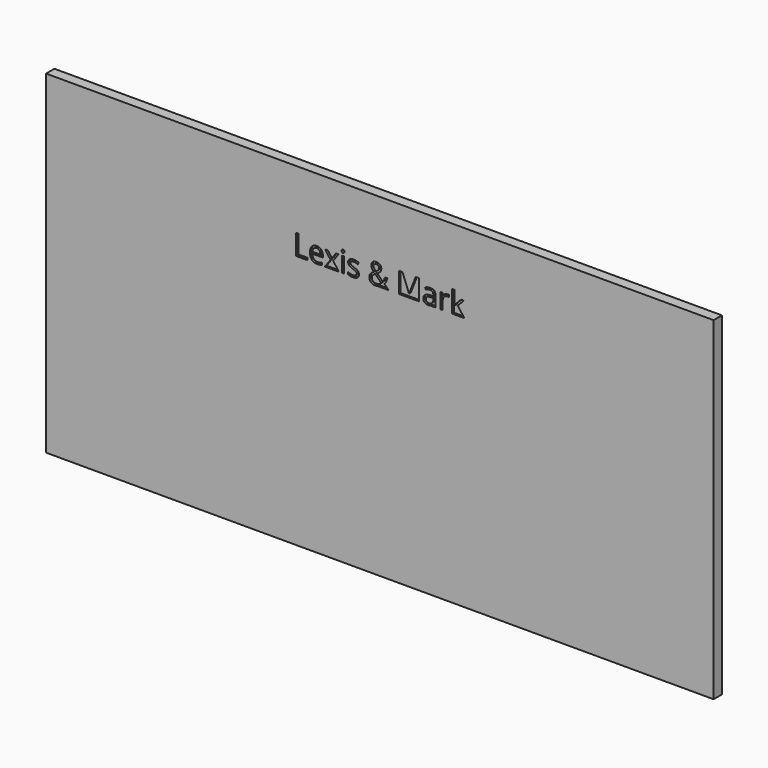
from build123d import *

# Parameters (mm, degrees)
F0_W     = 1016
F0_H     = 508
F1_DEPTH = 15.875
F2_W     = 3.5368850513
F2_H     = 23.3407154155
F3_DEPTH = 3.175


with BuildPart() as f1:
    # F0 (on Front) → F1 (new body)
    with BuildSketch(Plane.XZ):
        Rectangle(F0_W, F0_H)
    extrude(amount=F1_DEPTH)

    # F2 (on face) → F3 (cut)
    with BuildSketch(Plane.XZ.offset(15.875)):
        Polygon((-127.2188249277, 164.4563224108), (-127.2188249277, 133.3194673061), (-109.8615104274, 133.3194673061), (-109.8615104274, 136.5973896754), (-123.6001621874, 136.5973896754), (-123.6001621874, 164.4563224108), align=None)
        with BuildLine():
            Line((109.9909917684, 166.4598757925), (109.9909917684, 133.3194673061))
            Line((109.9909917684, 133.3194673061), (113.4869879752, 133.3194673061))
            Line((113.4869879752, 133.3194673061), (113.4869879752, 142.0492356119))
            Line((113.4869879752, 142.0492356119), (116.1447628692, 144.3526405201))
            Line((116.1447628692, 144.3526405201), (124.3906798481, 133.3194673061))
            Line((124.3906798481, 133.3194673061), (128.6703789083, 133.3194673061))
            Line((128.6703789083, 133.3194673061), (118.5503898887, 146.717378695))
            Line((118.5503898887, 146.717378695), (128.0093425885, 156.6601827217))
            Line((128.0093425885, 156.6601827217), (123.8114212174, 156.6601827217))
            Line((123.8114212174, 156.6601827217), (116.2742442102, 148.6732284247))
            add(Edge.make_bspline(
                [(113.4869879752, 145.2658247144), (114.4001721696, 146.5674529318), (116.2742442102, 148.6732284247)],
                knots=[0, 0, 0, 1, 1, 1], degree=2))
            Line((113.4869879752, 145.2658247144), (113.3166177897, 145.2658247144))
            add(Edge.make_bspline(
                [(113.4869879752, 148.8844874548), (113.4869879752, 147.7191553859), (113.3166177897, 145.2658247144)],
                knots=[0, 0, 0, 1, 1, 1], degree=2))
            Line((113.4869879752, 148.8844874548), (113.4869879752, 166.4598757925))
            Line((113.4869879752, 166.4598757925), (109.9909917684, 166.4598757925))
        make_face()
        with BuildLine():
            Line((92.1838999784, 156.6601827217), (92.1838999784, 133.3194673061))
            Line((92.1838999784, 133.3194673061), (95.7207850297, 133.3194673061))
            Line((95.7207850297, 133.3194673061), (95.7207850297, 145.8450833452))
            add(Edge.make_bspline(
                [(97.7311532188, 151.5729289822), (95.7207850297, 149.2729314778), (95.7207850297, 145.8450833452)],
                knots=[0, 0, 0, 1, 1, 1], degree=2))
            add(Edge.make_bspline(
                [(102.5764812948, 153.8729264867), (99.7415214079, 153.8729264867), (97.7311532188, 151.5729289822)],
                knots=[0, 0, 0, 1, 1, 1], degree=2))
            add(Edge.make_bspline(
                [(105.1320340775, 153.5526305379), (103.6872949044, 153.8729264867), (102.5764812948, 153.8729264867)],
                knots=[0, 0, 0, 1, 1, 1], degree=2))
            Line((105.1320340775, 153.5526305379), (105.6227002118, 156.8305529072))
            add(Edge.make_bspline(
                [(102.8354439768, 157.0895155892), (104.3892200687, 157.0895155892), (105.6227002118, 156.8305529072)],
                knots=[0, 0, 0, 1, 1, 1], degree=2))
            add(Edge.make_bspline(
                [(98.8078927912, 155.8526280423), (100.6410759874, 157.0895155892), (102.8354439768, 157.0895155892)],
                knots=[0, 0, 0, 1, 1, 1], degree=2))
            add(Edge.make_bspline(
                [(95.6798961852, 152.339594817), (96.9747095951, 154.6157404955), (98.8078927912, 155.8526280423)],
                knots=[0, 0, 0, 1, 1, 1], degree=2))
            Line((95.6798961852, 152.339594817), (95.5095259997, 152.339594817))
            Line((95.5095259997, 152.339594817), (95.1006375544, 156.6601827217))
            Line((95.1006375544, 156.6601827217), (92.1838999784, 156.6601827217))
        make_face()
        with BuildLine():
            add(Edge.make_bspline(
                [(70.5568210335, 133.3194673061), (69.1604420556, 133.7673407276), (68.1548890134, 134.6824287903)],
                knots=[0.4894320446, 0.4894320446, 0.4894320446, 1, 1, 1], degree=2))
            Line((70.5568210335, 133.3194673061), (76.9770468874, 133.3194673061))
            add(Edge.make_bspline(
                [(77.9307302582, 133.6704298883), (77.4828591485, 133.4689318841), (76.9770468874, 133.3194673061)],
                knots=[0, 0, 0, 0.2582329607, 0.2582329607, 0.2582329607], degree=2))
            add(Edge.make_bspline(
                [(81.4096894464, 136.6450933274), (79.6650987468, 134.450725338), (77.9307302582, 133.6704298883)],
                knots=[0, 0, 0, 1, 1, 1], degree=2))
            Line((81.4096894464, 136.6450933274), (81.580059632, 136.6450933274))
            Line((81.580059632, 136.6450933274), (82.2819847963, 133.3194673061))
            Line((82.2819847963, 133.3194673061), (84.9056856532, 133.3194673061))
            Line((84.9056856532, 133.3194673061), (84.9056856532, 149.2524870555))
            add(Edge.make_bspline(
                [(82.8919100604, 155.1915917225), (84.9056856532, 153.3413715078), (84.9056856532, 149.2524870555)],
                knots=[0, 0, 0, 1, 1, 1], degree=2))
            add(Edge.make_bspline(
                [(76.7074723262, 157.0418119372), (80.8781344676, 157.0418119372), (82.8919100604, 155.1915917225)],
                knots=[0, 0, 0, 1, 1, 1], degree=2))
            add(Edge.make_bspline(
                [(72.5811064331, 156.5102569584), (74.6357708704, 157.0418119372), (76.7074723262, 157.0418119372)],
                knots=[0, 0, 0, 1, 1, 1], degree=2))
            add(Edge.make_bspline(
                [(68.8022957183, 155.045073363), (70.5264419958, 155.9787019796), (72.5811064331, 156.5102569584)],
                knots=[0, 0, 0, 1, 1, 1], degree=2))
            Line((68.8022957183, 155.045073363), (69.8926649056, 152.339594817))
            add(Edge.make_bspline(
                [(76.4893984888, 154.1250743612), (73.5726609128, 154.1250743612), (69.8926649056, 152.339594817)],
                knots=[0, 0, 0, 1, 1, 1], degree=2))
            add(Edge.make_bspline(
                [(80.2716166072, 152.8166313365), (79.0926549234, 154.1250743612), (76.4893984888, 154.1250743612)],
                knots=[0, 0, 0, 1, 1, 1], degree=2))
            add(Edge.make_bspline(
                [(81.450578291, 148.7618209212), (81.450578291, 151.5081883117), (80.2716166072, 152.8166313365)],
                knots=[0, 0, 0, 1, 1, 1], degree=2))
            Line((81.450578291, 148.7618209212), (81.450578291, 147.3102669406))
            Line((81.450578291, 147.3102669406), (77.4911751796, 147.1807855996))
            add(Edge.make_bspline(
                [(66.1854096688, 139.7730899334), (66.1854096688, 146.8400452286), (77.4911751796, 147.1807855996)],
                knots=[0, 0, 0, 1, 1, 1], degree=2))
            add(Edge.make_bspline(
                [(68.1548890134, 134.6824287903), (66.1854096688, 136.4747231419), (66.1854096688, 139.7730899334)],
                knots=[0, 0, 0, 1, 1, 1], degree=2))
        make_face()
        with BuildLine():
            add(Edge.make_bspline(
                [(74.2950304993, 135.8136868221), (77.6002120983, 135.8136868221), (79.4845063501, 137.6230181922)],
                knots=[0, 0, 0, 1, 1, 1], degree=2))
            add(Edge.make_bspline(
                [(71.0511821671, 136.8120561092), (72.2096994286, 135.8136868221), (74.2950304993, 135.8136868221)],
                knots=[0, 0, 0, 1, 1, 1], degree=2))
            add(Edge.make_bspline(
                [(69.8926649056, 139.7322010889), (69.8926649056, 137.8104253963), (71.0511821671, 136.8120561092)],
                knots=[0, 0, 0, 1, 1, 1], degree=2))
            add(Edge.make_bspline(
                [(71.7531073315, 143.3406416181), (69.8926649056, 142.1787169529), (69.8926649056, 139.7322010889)],
                knots=[0, 0, 0, 1, 1, 1], degree=2))
            add(Edge.make_bspline(
                [(77.8319155506, 144.6524920466), (73.6135497573, 144.5025662833), (71.7531073315, 143.3406416181)],
                knots=[0, 0, 0, 1, 1, 1], degree=2))
            Line((77.8319155506, 144.6524920466), (81.3688006019, 144.7956030024))
            Line((81.3688006019, 144.7956030024), (81.3688006019, 142.6898275095))
            add(Edge.make_bspline(
                [(79.4845063501, 137.6230181922), (81.3688006019, 139.4323495624), (81.3688006019, 142.6898275095)],
                knots=[0, 0, 0, 1, 1, 1], degree=2))
        make_face(mode=Mode.SUBTRACT)
        with BuildLine():
            Line((76.9770468874, 133.3194673061), (70.5568210335, 133.3194673061))
            add(Edge.make_bspline(
                [(73.593105335, 132.8901344386), (71.8953943043, 132.8901344386), (70.5568210335, 133.3194673061)],
                knots=[0, 0, 0, 0.4894320446, 0.4894320446, 0.4894320446], degree=2))
            add(Edge.make_bspline(
                [(76.9770468874, 133.3194673061), (75.5241151531, 132.8901344386), (73.593105335, 132.8901344386)],
                knots=[0.2582329607, 0.2582329607, 0.2582329607, 1, 1, 1], degree=2))
        make_face()
        with BuildLine():
            Line((29.0855980711, 164.4563224108), (29.0855980711, 133.3194673061))
            Line((29.0855980711, 133.3194673061), (32.4316685146, 133.3194673061))
            Line((32.4316685146, 133.3194673061), (32.4316685146, 153.1232976704))
            add(Edge.make_bspline(
                [(32.1318169881, 160.9194373596), (32.4316685146, 157.6415149902), (32.4316685146, 153.1232976704)],
                knots=[0, 0, 0, 1, 1, 1], degree=2))
            Line((32.1318169881, 160.9194373596), (32.3021871736, 160.9194373596))
            Line((32.3021871736, 160.9194373596), (42.8651386756, 133.3194673061))
            Line((42.8651386756, 133.3194673061), (45.7818762516, 133.3194673061))
            Line((45.7818762516, 133.3194673061), (56.43342025, 160.878548515))
            Line((56.43342025, 160.878548515), (56.6037904355, 160.878548515))
            add(Edge.make_bspline(
                [(56.303938909, 153.3822603524), (56.303938909, 156.8305529072), (56.6037904355, 160.878548515)],
                knots=[0, 0, 0, 1, 1, 1], degree=2))
            Line((56.303938909, 153.3822603524), (56.303938909, 133.3194673061))
            Line((56.303938909, 133.3194673061), (59.9226016493, 133.3194673061))
            Line((59.9226016493, 133.3194673061), (59.9226016493, 164.4563224108))
            Line((59.9226016493, 164.4563224108), (54.5116445574, 164.4563224108))
            Line((54.5116445574, 164.4563224108), (44.5688405307, 138.7713132426))
            Line((44.5688405307, 138.7713132426), (44.3984703452, 138.7713132426))
            Line((44.3984703452, 138.7713132426), (34.5374440076, 164.4563224108))
            Line((34.5374440076, 164.4563224108), (29.0855980711, 164.4563224108))
        make_face()
        with BuildLine():
            add(Edge.make_bspline(
                [(-9.933311888, 133.3194673061), (-12.0112100812, 133.8749743236), (-13.4353928297, 135.1492430986)],
                knots=[0.4359417953, 0.4359417953, 0.4359417953, 1, 1, 1], degree=2))
            Line((-9.933311888, 133.3194673061), (-2.3697671158, 133.3194673061))
            add(Edge.make_bspline(
                [(-0.5417771899, 133.8714667072), (-1.4219877253, 133.5392247227), (-2.3697671158, 133.3194673061)],
                knots=[0, 0, 0, 0.3385621722, 0.3385621722, 0.3385621722], degree=2))
            add(Edge.make_bspline(
                [(4.5727357792, 137.108500232), (2.058071841, 134.8527989758), (-0.5417771899, 133.8714667072)],
                knots=[0, 0, 0, 1, 1, 1], degree=2))
            Line((4.5727357792, 137.108500232), (8.5116944683, 133.3194673061))
            Line((8.5116944683, 133.3194673061), (13.3842817741, 133.3194673061))
            Line((13.3842817741, 133.3194673061), (7.0192516432, 139.5141272515))
            add(Edge.make_bspline(
                [(11.3875431998, 148.7618209212), (9.9359892192, 142.6693830872), (7.0192516432, 139.5141272515)],
                knots=[0, 0, 0, 1, 1, 1], degree=2))
            Line((11.3875431998, 148.7618209212), (7.809769304, 148.7618209212))
            add(Edge.make_bspline(
                [(6.6035483906, 144.870565884), (7.3191031697, 146.6492306208), (7.809769304, 148.7618209212)],
                knots=[0, 0, 0, 1, 1, 1], degree=2))
            add(Edge.make_bspline(
                [(4.6954023128, 141.7766433151), (5.8879936114, 143.0919011473), (6.6035483906, 144.870565884)],
                knots=[0, 0, 0, 1, 1, 1], degree=2))
            Line((4.6954023128, 141.7766433151), (-3.9662179188, 150.1043379831))
            add(Edge.make_bspline(
                [(0.8211842942, 154.0092226351), (-0.6269622827, 152.080632135), (-3.9662179188, 150.1043379831)],
                knots=[0, 0, 0, 1, 1, 1], degree=2))
            add(Edge.make_bspline(
                [(2.2693308711, 158.2139588136), (2.2693308711, 155.9378131351), (0.8211842942, 154.0092226351)],
                knots=[0, 0, 0, 1, 1, 1], degree=2))
            add(Edge.make_bspline(
                [(0.2896293154, 163.1683238083), (2.2693308711, 161.3896590716), (2.2693308711, 158.2139588136)],
                knots=[0, 0, 0, 1, 1, 1], degree=2))
            add(Edge.make_bspline(
                [(-5.1383647951, 164.9469885451), (-1.6900722403, 164.9469885451), (0.2896293154, 163.1683238083)],
                knots=[0, 0, 0, 1, 1, 1], degree=2))
            add(Edge.make_bspline(
                [(-10.9548029286, 163.1581015972), (-8.8660644542, 164.9469885451), (-5.1383647951, 164.9469885451)],
                knots=[0, 0, 0, 1, 1, 1], degree=2))
            add(Edge.make_bspline(
                [(-13.043541403, 158.1730699691), (-13.043541403, 161.3692146493), (-10.9548029286, 163.1581015972)],
                knots=[0, 0, 0, 1, 1, 1], degree=2))
            add(Edge.make_bspline(
                [(-12.6585047838, 155.8321836201), (-13.043541403, 156.9600342482), (-13.043541403, 158.1730699691)],
                knots=[0, 0, 0, 1, 1, 1], degree=2))
            add(Edge.make_bspline(
                [(-11.6260614595, 153.6582600529), (-12.2734681645, 154.704332992), (-12.6585047838, 155.8321836201)],
                knots=[0, 0, 0, 1, 1, 1], degree=2))
            add(Edge.make_bspline(
                [(-9.1659159807, 150.5881893099), (-10.9786547546, 152.6121871138), (-11.6260614595, 153.6582600529)],
                knots=[0, 0, 0, 1, 1, 1], degree=2))
            add(Edge.make_bspline(
                [(-14.4780583651, 146.2914532312), (-12.9958377511, 148.4210805502), (-9.1659159807, 150.5881893099)],
                knots=[0, 0, 0, 1, 1, 1], degree=2))
            add(Edge.make_bspline(
                [(-15.960278979, 141.3881992921), (-15.960278979, 144.1618259123), (-14.4780583651, 146.2914532312)],
                knots=[0, 0, 0, 1, 1, 1], degree=2))
            add(Edge.make_bspline(
                [(-13.4353928297, 135.1492430986), (-15.960278979, 137.4083517585), (-15.960278979, 141.3881992921)],
                knots=[0, 0, 0, 1, 1, 1], degree=2))
        make_face()
        with BuildLine():
            add(Edge.make_bspline(
                [(-6.2491784047, 136.0658346966), (-1.117628417, 136.0658346966), (2.2693308711, 139.3437570659)],
                knots=[0, 0, 0, 1, 1, 1], degree=2))
            add(Edge.make_bspline(
                [(-10.644729191, 137.5242034846), (-8.9955457952, 136.0658346966), (-6.2491784047, 136.0658346966)],
                knots=[0, 0, 0, 1, 1, 1], degree=2))
            add(Edge.make_bspline(
                [(-12.2939125868, 141.4767917886), (-12.2939125868, 138.9825722727), (-10.644729191, 137.5242034846)],
                knots=[0, 0, 0, 1, 1, 1], degree=2))
            add(Edge.make_bspline(
                [(-11.8270982784, 143.9471594786), (-12.2939125868, 142.860197695), (-12.2939125868, 141.4767917886)],
                knots=[0, 0, 0, 1, 1, 1], degree=2))
            add(Edge.make_bspline(
                [(-10.3789517016, 145.9813794936), (-11.3602839701, 145.0341212621), (-11.8270982784, 143.9471594786)],
                knots=[0, 0, 0, 1, 1, 1], degree=2))
            add(Edge.make_bspline(
                [(-7.0328812581, 148.3733768982), (-9.397619433, 146.9286377251), (-10.3789517016, 145.9813794936)],
                knots=[0, 0, 0, 1, 1, 1], degree=2))
            Line((-7.0328812581, 148.3733768982), (2.2693308711, 139.3437570659))
        make_face(mode=Mode.SUBTRACT)
        with BuildLine():
            add(Edge.make_bspline(
                [(-9.5475451963, 158.2548476581), (-9.5475451963, 156.7896640627), (-8.7808793614, 155.4573692119)],
                knots=[0, 0, 0, 1, 1, 1], degree=2))
            add(Edge.make_bspline(
                [(-8.3651761088, 161.008029856), (-9.5475451963, 159.9858087429), (-9.5475451963, 158.2548476581)],
                knots=[0, 0, 0, 1, 1, 1], degree=2))
            add(Edge.make_bspline(
                [(-5.2882905584, 162.0302509691), (-7.1828070213, 162.0302509691), (-8.3651761088, 161.008029856)],
                knots=[0, 0, 0, 1, 1, 1], degree=2))
            add(Edge.make_bspline(
                [(-2.3613307712, 160.9944002412), (-3.4551073622, 162.0302509691), (-5.2882905584, 162.0302509691)],
                knots=[0, 0, 0, 1, 1, 1], degree=2))
            add(Edge.make_bspline(
                [(-1.2675541802, 158.3229957323), (-1.2675541802, 159.9585495132), (-2.3613307712, 160.9944002412)],
                knots=[0, 0, 0, 1, 1, 1], degree=2))
            add(Edge.make_bspline(
                [(-2.340886349, 155.2018139337), (-1.2675541802, 156.551145803), (-1.2675541802, 158.3229957323)],
                knots=[0, 0, 0, 1, 1, 1], degree=2))
            add(Edge.make_bspline(
                [(-6.1605859082, 152.2510023206), (-3.4142185177, 153.8524820644), (-2.340886349, 155.2018139337)],
                knots=[0, 0, 0, 1, 1, 1], degree=2))
            add(Edge.make_bspline(
                [(-8.7808793614, 155.4573692119), (-8.0142135266, 154.1250743612), (-6.1605859082, 152.2510023206)],
                knots=[0, 0, 0, 1, 1, 1], degree=2))
        make_face(mode=Mode.SUBTRACT)
        with BuildLine():
            Line((-2.3697671158, 133.3194673061), (-9.933311888, 133.3194673061))
            add(Edge.make_bspline(
                [(-6.3309560937, 132.8901344386), (-8.327373598, 132.8901344386), (-9.933311888, 133.3194673061)],
                knots=[0, 0, 0, 0.4359417953, 0.4359417953, 0.4359417953], degree=2))
            add(Edge.make_bspline(
                [(-2.3697671158, 133.3194673061), (-4.2214126706, 132.8901344386), (-6.3309560937, 132.8901344386)],
                knots=[0.3385621722, 0.3385621722, 0.3385621722, 1, 1, 1], degree=2))
        make_face()
        with BuildLine():
            add(Edge.make_bspline(
                [(-45.3597948112, 133.3194673061), (-46.9864855801, 133.6851044351), (-48.1806884636, 134.3621328415)],
                knots=[0.5400617249, 0.5400617249, 0.5400617249, 1, 1, 1], degree=2))
            Line((-45.3597948112, 133.3194673061), (-37.094998065, 133.3194673061))
            add(Edge.make_bspline(
                [(-34.1285555623, 134.6585769643), (-35.3592492228, 133.7614842539), (-37.094998065, 133.3194673061)],
                knots=[0, 0, 0, 0.5072784088, 0.5072784088, 0.5072784088], degree=2))
            add(Edge.make_bspline(
                [(-31.7024841206, 139.684497437), (-31.7024841206, 136.4270194899), (-34.1285555623, 134.6585769643)],
                knots=[0, 0, 0, 1, 1, 1], degree=2))
            add(Edge.make_bspline(
                [(-33.1608529086, 143.541678437), (-31.7024841206, 142.0083467674), (-31.7024841206, 139.684497437)],
                knots=[0, 0, 0, 1, 1, 1], degree=2))
            add(Edge.make_bspline(
                [(-38.7694394158, 146.587897354), (-34.6192216966, 145.0750101067), (-33.1608529086, 143.541678437)],
                knots=[0, 0, 0, 1, 1, 1], degree=2))
            add(Edge.make_bspline(
                [(-42.8583238681, 148.3154510352), (-41.7952139105, 147.7191553859), (-38.7694394158, 146.587897354)],
                knots=[0, 0, 0, 1, 1, 1], degree=2))
            add(Edge.make_bspline(
                [(-44.4018777489, 149.5693756005), (-43.9214338257, 148.9117466845), (-42.8583238681, 148.3154510352)],
                knots=[0, 0, 0, 1, 1, 1], degree=2))
            add(Edge.make_bspline(
                [(-44.882321672, 151.1674479407), (-44.882321672, 150.2270045166), (-44.4018777489, 149.5693756005)],
                knots=[0, 0, 0, 1, 1, 1], degree=2))
            add(Edge.make_bspline(
                [(-43.6045452807, 153.3379641041), (-44.882321672, 152.5508538471), (-44.882321672, 151.1674479407)],
                knots=[0, 0, 0, 1, 1, 1], degree=2))
            add(Edge.make_bspline(
                [(-39.8121049511, 154.1250743612), (-42.3267688893, 154.1250743612), (-43.6045452807, 153.3379641041)],
                knots=[0, 0, 0, 1, 1, 1], degree=2))
            add(Edge.make_bspline(
                [(-33.4470748203, 152.6803351881), (-36.9567006419, 154.1250743612), (-39.8121049511, 154.1250743612)],
                knots=[0, 0, 0, 1, 1, 1], degree=2))
            Line((-33.4470748203, 152.6803351881), (-32.1863354475, 155.5561839195))
            add(Edge.make_bspline(
                [(-39.5599570766, 157.0895155892), (-35.791368573, 157.0895155892), (-32.1863354475, 155.5561839195)],
                knots=[0, 0, 0, 1, 1, 1], degree=2))
            add(Edge.make_bspline(
                [(-45.9249872074, 155.4369247897), (-43.601137877, 157.0895155892), (-39.5599570766, 157.0895155892)],
                knots=[0, 0, 0, 1, 1, 1], degree=2))
            add(Edge.make_bspline(
                [(-48.2488365378, 150.928929681), (-48.2488365378, 153.7843339902), (-45.9249872074, 155.4369247897)],
                knots=[0, 0, 0, 1, 1, 1], degree=2))
            add(Edge.make_bspline(
                [(-47.5775780069, 148.1859696942), (-48.2488365378, 149.3342647445), (-48.2488365378, 150.928929681)],
                knots=[0, 0, 0, 1, 1, 1], degree=2))
            add(Edge.make_bspline(
                [(-45.5331357807, 146.1313052569), (-46.906319476, 147.0376746438), (-47.5775780069, 148.1859696942)],
                knots=[0, 0, 0, 1, 1, 1], degree=2))
            add(Edge.make_bspline(
                [(-40.9024741384, 144.0119001491), (-44.1599520855, 145.2249358699), (-45.5331357807, 146.1313052569)],
                knots=[0, 0, 0, 1, 1, 1], degree=2))
            add(Edge.make_bspline(
                [(-36.2888495147, 141.7221248557), (-37.4678111984, 142.6898275095), (-40.9024741384, 144.0119001491)],
                knots=[0, 0, 0, 1, 1, 1], degree=2))
            add(Edge.make_bspline(
                [(-35.1098878309, 139.3914607179), (-35.1098878309, 140.754422202), (-36.2888495147, 141.7221248557)],
                knots=[0, 0, 0, 1, 1, 1], degree=2))
            add(Edge.make_bspline(
                [(-36.5989232523, 136.696204383), (-35.1098878309, 137.578721944), (-35.1098878309, 139.3914607179)],
                knots=[0, 0, 0, 1, 1, 1], degree=2))
            add(Edge.make_bspline(
                [(-40.8547704865, 135.8136868221), (-38.0879586737, 135.8136868221), (-36.5989232523, 136.696204383)],
                knots=[0, 0, 0, 1, 1, 1], degree=2))
            add(Edge.make_bspline(
                [(-44.5722479344, 136.3009455526), (-42.6470648381, 135.8136868221), (-40.8547704865, 135.8136868221)],
                knots=[0, 0, 0, 1, 1, 1], degree=2))
            add(Edge.make_bspline(
                [(-48.1806884636, 137.6400552108), (-46.4974310307, 136.7882042832), (-44.5722479344, 136.3009455526)],
                knots=[0, 0, 0, 1, 1, 1], degree=2))
            Line((-48.1806884636, 137.6400552108), (-48.1806884636, 134.3621328415))
        make_face()
        with BuildLine():
            Line((-37.094998065, 133.3194673061), (-45.3597948112, 133.3194673061))
            add(Edge.make_bspline(
                [(-40.9433629829, 132.8901344386), (-43.4497267217, 132.8901344386), (-45.3597948112, 133.3194673061)],
                knots=[0, 0, 0, 0.5400617249, 0.5400617249, 0.5400617249], degree=2))
            add(Edge.make_bspline(
                [(-37.094998065, 133.3194673061), (-38.7809380079, 132.8901344386), (-40.9433629829, 132.8901344386)],
                knots=[0.5072784088, 0.5072784088, 0.5072784088, 1, 1, 1], degree=2))
        make_face()
        with Locations((-56.021124401, 144.9898250139)):
            Rectangle(F2_W, F2_H)
        Polygon((-75.0174000859, 145.2658247144), (-83.5563537839, 133.3194673061), (-79.556061828, 133.3194673061), (-72.9525134375, 142.7784200059), (-66.4102983137, 133.3194673061), (-62.4100063578, 133.3194673061), (-70.9489600558, 145.2658247144), (-62.8325244179, 156.6601827217), (-66.8191867589, 156.6601827217), (-72.9525134375, 147.7191553859), (-79.1062845383, 156.6601827217), (-83.1338357239, 156.6601827217), align=None)
        with BuildLine():
            add(Edge.make_bspline(
                [(-98.7702674606, 133.3194673061), (-101.5278239785, 134.054030927), (-103.4181100113, 136.0453902744)],
                knots=[0.3688754729, 0.3688754729, 0.3688754729, 1, 1, 1], degree=2))
            Line((-98.7702674606, 133.3194673061), (-90.8819582138, 133.3194673061))
            add(Edge.make_bspline(
                [(-87.672497466, 134.403021686), (-89.3601220019, 133.6788773397), (-90.8819582138, 133.3194673061)],
                knots=[0, 0, 0, 0.9005120931, 0.9005120931, 0.9005120931], degree=2))
            Line((-87.672497466, 134.403021686), (-87.672497466, 137.5582775217))
            add(Edge.make_bspline(
                [(-95.1210819767, 135.9840570076), (-91.3524934731, 135.9840570076), (-87.672497466, 137.5582775217)],
                knots=[0, 0, 0, 1, 1, 1], degree=2))
            add(Edge.make_bspline(
                [(-100.6683352171, 138.1136843265), (-98.6988558725, 135.9840570076), (-95.1210819767, 135.9840570076)],
                knots=[0, 0, 0, 1, 1, 1], degree=2))
            add(Edge.make_bspline(
                [(-102.7468514803, 144.3526405201), (-102.6378145616, 140.2433116455), (-100.6683352171, 138.1136843265)],
                knots=[0, 0, 0, 1, 1, 1], degree=2))
            Line((-102.7468514803, 144.3526405201), (-86.6707207751, 144.3526405201))
            Line((-86.6707207751, 144.3526405201), (-86.6707207751, 146.587897354))
            add(Edge.make_bspline(
                [(-89.2262735579, 154.2034446466), (-86.6707207751, 151.3173737039), (-86.6707207751, 146.587897354)],
                knots=[0, 0, 0, 1, 1, 1], degree=2))
            add(Edge.make_bspline(
                [(-96.163747512, 157.0895155892), (-91.7818263406, 157.0895155892), (-89.2262735579, 154.2034446466)],
                knots=[0, 0, 0, 1, 1, 1], degree=2))
            add(Edge.make_bspline(
                [(-103.632776445, 153.7672969716), (-100.8523350174, 157.0895155892), (-96.163747512, 157.0895155892)],
                knots=[0, 0, 0, 1, 1, 1], degree=2))
            add(Edge.make_bspline(
                [(-106.4132178726, 144.7956030024), (-106.4132178726, 150.4450783541), (-103.632776445, 153.7672969716)],
                knots=[0, 0, 0, 1, 1, 1], degree=2))
            add(Edge.make_bspline(
                [(-103.4181100113, 136.0453902744), (-106.4132178726, 139.2006461101), (-106.4132178726, 144.7956030024)],
                knots=[0, 0, 0, 1, 1, 1], degree=2))
        make_face()
        with BuildLine():
            add(Edge.make_bspline(
                [(-96.211451164, 154.1250743612), (-99.0191518213, 154.1250743612), (-100.692187043, 152.2952985688)],
                knots=[0, 0, 0, 1, 1, 1], degree=2))
            add(Edge.make_bspline(
                [(-91.9487891224, 152.3464096244), (-93.4378245438, 154.1250743612), (-96.211451164, 154.1250743612)],
                knots=[0, 0, 0, 1, 1, 1], degree=2))
            add(Edge.make_bspline(
                [(-90.459753701, 147.2284892516), (-90.459753701, 150.5677448877), (-91.9487891224, 152.3464096244)],
                knots=[0, 0, 0, 1, 1, 1], degree=2))
            Line((-90.459753701, 147.2284892516), (-102.6650737913, 147.2284892516))
            add(Edge.make_bspline(
                [(-100.692187043, 152.2952985688), (-102.3652222648, 150.4655227764), (-102.6650737913, 147.2284892516)],
                knots=[0, 0, 0, 1, 1, 1], degree=2))
        make_face(mode=Mode.SUBTRACT)
        with BuildLine():
            Line((-90.8819582138, 133.3194673061), (-98.7702674606, 133.3194673061))
            add(Edge.make_bspline(
                [(-95.2505633177, 132.8901344386), (-97.1585491377, 132.8901344386), (-98.7702674606, 133.3194673061)],
                knots=[0, 0, 0, 0.3688754729, 0.3688754729, 0.3688754729], degree=2))
            add(Edge.make_bspline(
                [(-91.2161973247, 133.2445044245), (-92.8858251427, 132.8901344386), (-95.2505633177, 132.8901344386)],
                knots=[0, 0, 0, 1, 1, 1], degree=2))
            add(Edge.make_bspline(
                [(-90.8819582138, 133.3194673061), (-91.0500895477, 133.2797599527), (-91.2161973247, 133.2445044245)],
                knots=[0.9005120931, 0.9005120931, 0.9005120931, 1, 1, 1], degree=2))
        make_face()
        Polygon((-72.9525134375, 142.7784200059), (-79.556061828, 133.3194673061), (-66.4102983137, 133.3194673061), align=None)
        with BuildLine():
            add(Edge.make_bspline(
                [(-0.5417771899, 133.8714667072), (-1.4219877253, 133.5392247227), (-2.3697671158, 133.3194673061)],
                knots=[0, 0, 0, 0.3385621722, 0.3385621722, 0.3385621722], degree=2))
            Line((-2.3697671158, 133.3194673061), (8.5116944683, 133.3194673061))
            Line((8.5116944683, 133.3194673061), (4.5727357792, 137.108500232))
            add(Edge.make_bspline(
                [(4.5727357792, 137.108500232), (2.058071841, 134.8527989758), (-0.5417771899, 133.8714667072)],
                knots=[0, 0, 0, 1, 1, 1], degree=2))
        make_face()
        with BuildLine():
            Line((32.4316685146, 153.1232976704), (32.4316685146, 133.3194673061))
            Line((32.4316685146, 133.3194673061), (42.8651386756, 133.3194673061))
            Line((42.8651386756, 133.3194673061), (32.3021871736, 160.9194373596))
            Line((32.3021871736, 160.9194373596), (32.1318169881, 160.9194373596))
            add(Edge.make_bspline(
                [(32.1318169881, 160.9194373596), (32.4316685146, 157.6415149902), (32.4316685146, 153.1232976704)],
                knots=[0, 0, 0, 1, 1, 1], degree=2))
        make_face()
        with BuildLine():
            Line((56.43342025, 160.878548515), (45.7818762516, 133.3194673061))
            Line((45.7818762516, 133.3194673061), (56.303938909, 133.3194673061))
            Line((56.303938909, 133.3194673061), (56.303938909, 153.3822603524))
            add(Edge.make_bspline(
                [(56.303938909, 153.3822603524), (56.303938909, 156.8305529072), (56.6037904355, 160.878548515)],
                knots=[0, 0, 0, 1, 1, 1], degree=2))
            Line((56.6037904355, 160.878548515), (56.43342025, 160.878548515))
        make_face()
        with BuildLine():
            add(Edge.make_bspline(
                [(77.9307302582, 133.6704298883), (77.4828591485, 133.4689318841), (76.9770468874, 133.3194673061)],
                knots=[0, 0, 0, 0.2582329607, 0.2582329607, 0.2582329607], degree=2))
            Line((76.9770468874, 133.3194673061), (82.2819847963, 133.3194673061))
            Line((82.2819847963, 133.3194673061), (81.580059632, 136.6450933274))
            Line((81.580059632, 136.6450933274), (81.4096894464, 136.6450933274))
            add(Edge.make_bspline(
                [(81.4096894464, 136.6450933274), (79.6650987468, 134.450725338), (77.9307302582, 133.6704298883)],
                knots=[0, 0, 0, 1, 1, 1], degree=2))
        make_face()
        Polygon((113.4869879752, 142.0492356119), (113.4869879752, 133.3194673061), (124.3906798481, 133.3194673061), (116.1447628692, 144.3526405201), align=None)
        with BuildLine():
            add(Edge.make_bspline(
                [(-58.0894184532, 162.984324008), (-58.0894184532, 164.1973597289), (-57.4931228039, 164.7629887448)],
                knots=[0, 0, 0, 1, 1, 1], degree=2))
            add(Edge.make_bspline(
                [(-57.4931228039, 161.2056592712), (-58.0894184532, 161.7917327094), (-58.0894184532, 162.984324008)],
                knots=[0, 0, 0, 1, 1, 1], degree=2))
            add(Edge.make_bspline(
                [(-55.997272575, 160.619585833), (-56.8968271546, 160.619585833), (-57.4931228039, 161.2056592712)],
                knots=[0, 0, 0, 1, 1, 1], degree=2))
            add(Edge.make_bspline(
                [(-54.5286815759, 161.2056592712), (-55.1454216475, 160.619585833), (-55.997272575, 160.619585833)],
                knots=[0, 0, 0, 1, 1, 1], degree=2))
            add(Edge.make_bspline(
                [(-53.9119415043, 162.984324008), (-53.9119415043, 161.7917327094), (-54.5286815759, 161.2056592712)],
                knots=[0, 0, 0, 1, 1, 1], degree=2))
            add(Edge.make_bspline(
                [(-54.5286815759, 164.7527665336), (-53.9119415043, 164.1769153066), (-53.9119415043, 162.984324008)],
                knots=[0, 0, 0, 1, 1, 1], degree=2))
            add(Edge.make_bspline(
                [(-55.997272575, 165.3286177607), (-55.1454216475, 165.3286177607), (-54.5286815759, 164.7527665336)],
                knots=[0, 0, 0, 1, 1, 1], degree=2))
            add(Edge.make_bspline(
                [(-57.4931228039, 164.7629887448), (-56.8968271546, 165.3286177607), (-55.997272575, 165.3286177607)],
                knots=[0, 0, 0, 1, 1, 1], degree=2))
        make_face()
    extrude(amount=-F3_DEPTH, mode=Mode.SUBTRACT)


solid = f1.part
